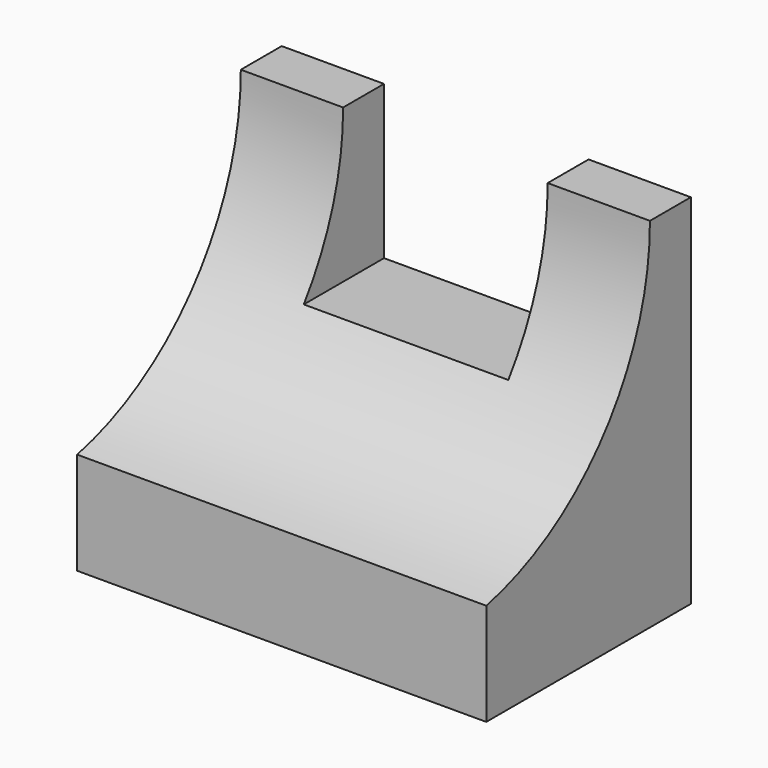
from build123d import *

# Parameters (mm, degrees)
F0_W     = 50.8
F0_H     = 44.45
F1_DEPTH = 31.75
F3_DEPTH = 76.2
F4_W     = 25.4
F4_H     = 19.05
F5_DEPTH = 25.4


with BuildPart() as f1:
    # F0 (on Front) → F1 (new body)
    with BuildSketch(Plane.XZ):
        with Locations((25.4, 22.225)):
            Rectangle(F0_W, F0_H)
    extrude(amount=F1_DEPTH)

    # F2 (on face) → F3 (cut)
    with BuildSketch(Plane.YZ.offset(50.8)):
        with BuildLine():
            Line((-31.75, 44.45), (-31.75, 12.7))
            ThreePointArc((-31.75, 12.7), (-13.444399, 24.090519), (-6.35, 44.45))
            Line((-6.35, 44.45), (-31.75, 44.45))
        make_face()
    extrude(amount=-F3_DEPTH, mode=Mode.SUBTRACT)

    # F4 (on face) → F5 (cut)
    with BuildSketch(Plane(origin=(0, 0, 0), x_dir=(-1, 0, 0), z_dir=(0, 1, 0))):
        with Locations((-25.4, 34.925)):
            Rectangle(F4_W, F4_H)
    extrude(amount=-F5_DEPTH, mode=Mode.SUBTRACT)


solid = f1.part
